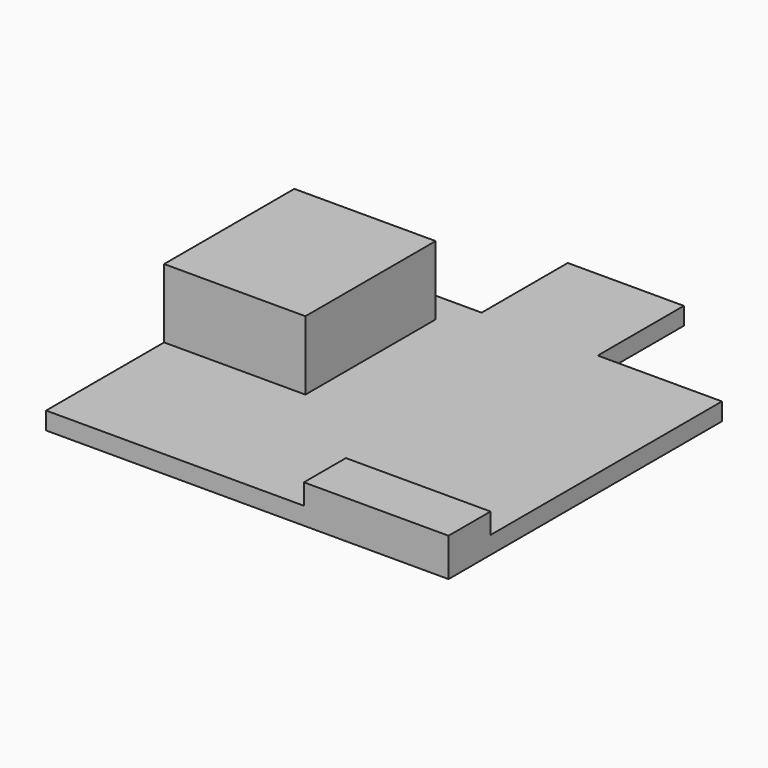
from build123d import *

# Parameters (mm, degrees)
F1_DEPTH = 0.85
F2_W     = 6.84
F2_H     = 7.88
F3_DEPTH = 3.34
F4_W     = 7
F4_H     = 2.54
F5_DEPTH = 1
F6_W     = 4.43
F6_H     = 3.43
F7_DEPTH = 2


with BuildPart() as f1:
    # F0 (on Top) → F1 (new body)
    with BuildSketch(Plane.XY):
        Polygon((-9.74, -8.27), (9.74, -8.27), (9.74, 8.27), (3.73, 8.27), (3.73, 13.48), (-1.89, 13.48), (-1.89, 8.27), (-9.74, 8.27), align=None)
    extrude(amount=F1_DEPTH)

    # F2 (on face) → F3 (join)
    with BuildSketch(Plane.XY.offset(0.85)):
        with Locations((-6.32, 2.81)):
            Rectangle(F2_W, F2_H)
    extrude(amount=F3_DEPTH)

    # F4 (on face) → F5 (join)
    with BuildSketch(Plane.XY.offset(0.85)):
        with Locations((6.24, -7)):
            Rectangle(F4_W, F4_H)
    extrude(amount=F5_DEPTH)

    # F6 (on face) → F7 (join)
    with BuildSketch(Plane(origin=(0, 0, 0), x_dir=(1, 0, 0), z_dir=(0, 0, -1))):
        with Locations((-5.755, -6.555)):
            Rectangle(F6_W, F6_H)
    extrude(amount=F7_DEPTH)


solid = f1.part
